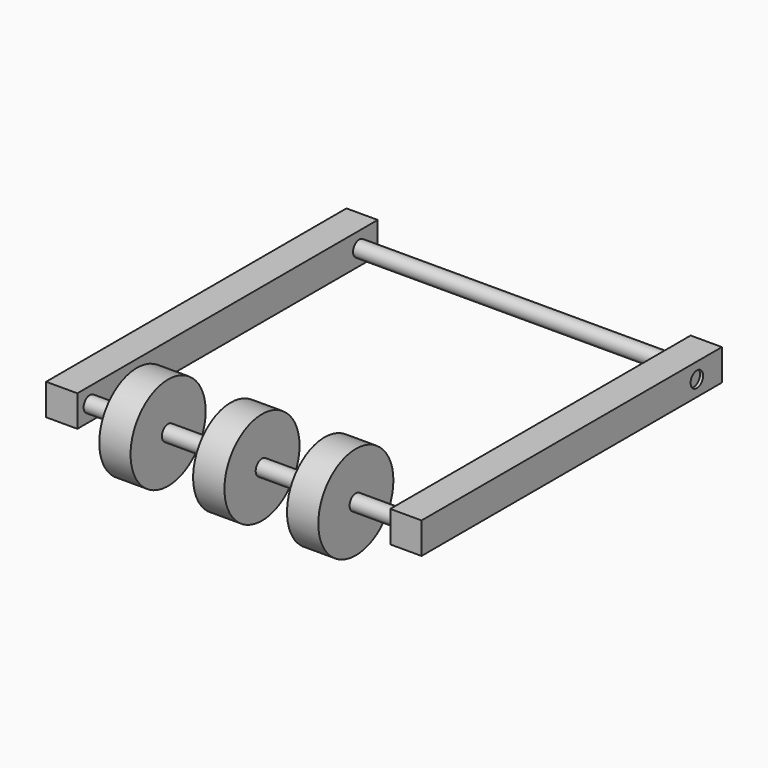
from build123d import *

# Parameters (mm, degrees)
F0_W           = 25.4
F0_H           = 25.4
F1_DEPTH       = 25.4
F1_DEPTH_BACK  = 279.4
F2_R           = 6.35
F4_DEPTH       = 2.54
F3_R           = 6.35
F5_DEPTH       = 2.54
F6_R           = 6.35
F7_DEPTH       = 254
F8_R           = 6.35
F9_DEPTH       = 254
F11_START      = 63.5
F10_R          = 38.1
F11_DEPTH      = 25.4
F13_START      = -63.5
F12_R          = 38.1
F13_DEPTH      = 25.4
F14_R          = 38.1
F15_DEPTH      = 12.7
F15_DEPTH_BACK = 12.7


with BuildPart() as f1:
    # F0 (on Front) → F1 (new body, two sides)
    with BuildSketch(Plane.XZ) as f1_sk:
        with Locations((-139.7, 0)):
            Rectangle(F0_W, F0_H)
    extrude(amount=-F1_DEPTH)
    extrude(f1_sk.sketch, amount=F1_DEPTH_BACK)

    # F2 (on face) → F4 (cut)
    with BuildSketch(Plane(origin=(-152.4, 0, 0), x_dir=(0, -1, 0), z_dir=(-1, 0, 0))):
        Circle(F2_R)
    extrude(amount=-F4_DEPTH, mode=Mode.SUBTRACT)


with BuildPart() as f1b:
    # F0 (on Front) → F1, piece 2 (new body, two sides)
    with BuildSketch(Plane.XZ) as f1_2_sk:
        with Locations((139.7, 0)):
            Rectangle(F0_W, F0_H)
    extrude(amount=-F1_DEPTH)
    extrude(f1_2_sk.sketch, amount=F1_DEPTH_BACK)

    # F3 (on face) → F5 (cut)
    with BuildSketch(Plane.YZ.offset(152.4)):
        Circle(F3_R)
    extrude(amount=-F5_DEPTH, mode=Mode.SUBTRACT)


with BuildPart() as f7:
    # F6 (on face) → F7 (new body)
    with BuildSketch(Plane.YZ.offset(-127)):
        with Locations((6.7060901317, 0)):
            Circle(F6_R)
    extrude(amount=F7_DEPTH)


with BuildPart() as f9:
    # F8 (on face) → F9 (new body)
    with BuildSketch(Plane.YZ.offset(-127)):
        with Locations((-266.7, 0)):
            Circle(F8_R)
    extrude(amount=F9_DEPTH)

    # F10 (on Right) → F11 (join)
    with BuildSketch(Plane.YZ.offset(F11_START)):
        with Locations((-266.7, 0)):
            Circle(F10_R)
    extrude(amount=F11_DEPTH)

    # F12 (on Right) → F13 (join)
    with BuildSketch(Plane.YZ.offset(F13_START)):
        with Locations((-266.7, 0)):
            Circle(F12_R)
    extrude(amount=-F13_DEPTH)

    # F14 (on Right) → F15 (join, two sides)
    with BuildSketch(Plane.YZ) as f15_sk:
        with Locations((-266.7, 0)):
            Circle(F14_R)
    extrude(amount=F15_DEPTH)
    extrude(f15_sk.sketch, amount=-F15_DEPTH_BACK)


solid = Compound([f1.part, f1b.part, f7.part, f9.part])
